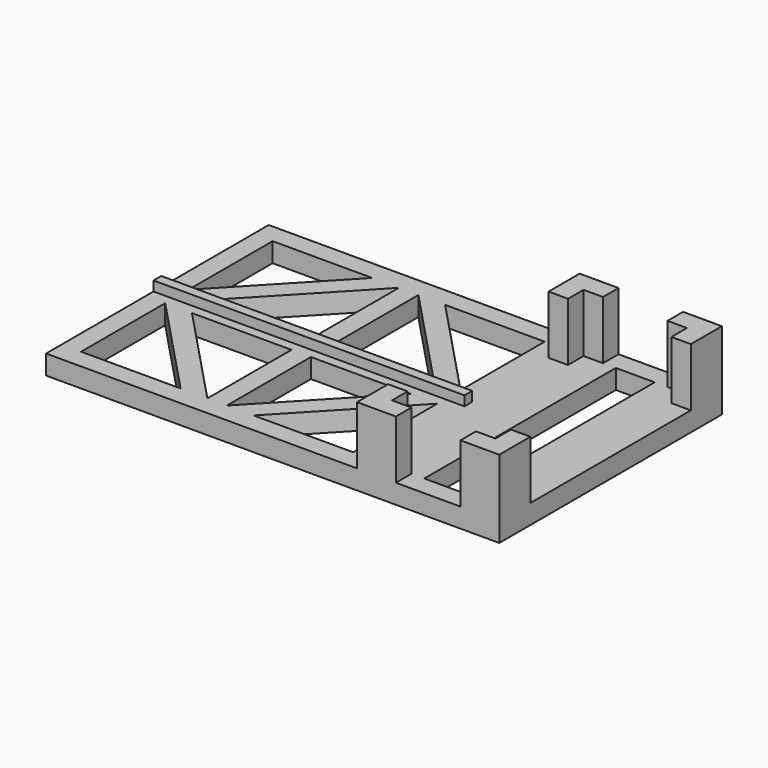
from build123d import *

# Parameters (mm, degrees)
F0_W     = 1.5875
F0_H     = 16.383
F0_W_2   = 2.38125
F0_H_2   = 19.05
F0_W_3   = 25.4
F0_H_3   = 0.79375
F1_DEPTH = 1.5875
F2_DEPTH = 4.7625
F3_DEPTH = 0.79375


with BuildPart() as f1:
    # F0 (on Top) → F1 (new body)
    with BuildSketch(Plane.XY):
        Polygon((-1.5875, 9.779), (1.5875, 9.779), (2.63525, 9.779), (2.63525, 11.3665), (-2.63525, 11.3665), (-2.63525, 9.779), align=None)
        Polygon((2.63525, 11.3665), (2.63525, 9.779), (4.22275, 9.779), (4.22275, 8.1915), (5.81025, 8.1915), (5.81025, 11.3665), align=None)
        with Locations((5.0165, 0)):
            Rectangle(F0_W, F0_H)
        Polygon((4.22275, -9.779), (2.63525, -9.779), (2.63525, -11.3665), (5.81025, -11.3665), (5.81025, -8.1915), (4.22275, -8.1915), align=None)
        Polygon((2.63525, -9.779), (1.5875, -9.779), (-1.5875, -9.779), (-2.63525, -9.779), (-2.63525, -11.3665), (2.63525, -11.3665), align=None)
        Polygon((-4.22275, -9.779), (-4.22275, -8.1915), (-5.81025, -8.1915), (-5.81025, -11.3665), (-2.63525, -11.3665), (-2.63525, -9.779), align=None)
        Polygon((-5.81025, 8.1915), (-5.81025, 11.3665), (-31.21025, 11.3665), (-31.21025, 0.396875), (-5.81025, 0.396875), align=None)
        Polygon((-21.490287, 9.779), (-29.62275, 1.190625), (-29.62275, 9.779), align=None, mode=Mode.SUBTRACT)
        Polygon((-27.436463, 1.190625), (-19.304, 9.779), (-19.304, 1.190625), align=None, mode=Mode.SUBTRACT)
        Polygon((-17.7165, 9.779), (-9.584037, 1.190625), (-17.7165, 1.190625), align=None, mode=Mode.SUBTRACT)
        Polygon((-7.39775, 1.190625), (-15.530213, 9.779), (-7.39775, 9.779), align=None, mode=Mode.SUBTRACT)
        Polygon((-4.22275, 9.779), (-2.63525, 9.779), (-2.63525, 11.3665), (-5.81025, 11.3665), (-5.81025, 8.1915), (-4.22275, 8.1915), align=None)
        Polygon((-5.81025, -8.1915), (-4.22275, -8.1915), (-4.22275, 8.1915), (-5.81025, 8.1915), (-5.81025, 0.396875), (-5.81025, -0.396875), align=None)
        with Locations((2.778125, 0)):
            Rectangle(F0_W_2, F0_H_2)
        Polygon((-1.5875, -9.525), (-1.5875, 9.525), (-3.96875, 9.525), (-3.96875, -8.1915), (-3.96875, -9.525), align=None)
        Polygon((-3.96875, 9.525), (-1.5875, 9.525), (-1.5875, 9.779), (-2.63525, 9.779), (-4.22275, 9.779), (-4.22275, 8.1915), (-4.22275, -8.1915), (-3.96875, -8.1915), align=None)
        Polygon((-1.5875, -9.779), (-1.5875, -9.525), (-3.96875, -9.525), (-3.96875, -8.1915), (-4.22275, -8.1915), (-4.22275, -9.779), (-2.63525, -9.779), align=None)
        Polygon((1.5875, 9.525), (3.96875, 9.525), (3.96875, -9.525), (1.5875, -9.525), (1.5875, -9.779), (2.63525, -9.779), (4.22275, -9.779), (4.22275, -8.1915), (4.22275, 8.1915), (4.22275, 9.779), (2.63525, 9.779), (1.5875, 9.779), align=None)
        Polygon((-5.81025, -11.3665), (-5.81025, -8.1915), (-5.81025, -0.396875), (-31.21025, -0.396875), (-31.21025, -11.3665), align=None)
        Polygon((-29.62275, -1.190625), (-21.490287, -9.779), (-29.62275, -9.779), align=None, mode=Mode.SUBTRACT)
        Polygon((-27.436463, -1.190625), (-19.304, -1.190625), (-19.304, -9.779), align=None, mode=Mode.SUBTRACT)
        Polygon((-9.584037, -1.190625), (-17.7165, -9.779), (-17.7165, -1.190625), align=None, mode=Mode.SUBTRACT)
        Polygon((-15.530213, -9.779), (-7.39775, -1.190625), (-7.39775, -9.779), align=None, mode=Mode.SUBTRACT)
        with Locations((-18.51025, 0)):
            Rectangle(F0_W_3, F0_H_3)
    extrude(amount=-F1_DEPTH)

    # F0 (on Top) → F2 (join)
    with BuildSketch(Plane.XY):
        Polygon((-4.22275, 9.779), (-2.63525, 9.779), (-2.63525, 11.3665), (-5.81025, 11.3665), (-5.81025, 8.1915), (-4.22275, 8.1915), align=None)
        Polygon((2.63525, 11.3665), (2.63525, 9.779), (4.22275, 9.779), (4.22275, 8.1915), (5.81025, 8.1915), (5.81025, 11.3665), align=None)
        Polygon((4.22275, -9.779), (2.63525, -9.779), (2.63525, -11.3665), (5.81025, -11.3665), (5.81025, -8.1915), (4.22275, -8.1915), align=None)
        Polygon((-4.22275, -9.779), (-4.22275, -8.1915), (-5.81025, -8.1915), (-5.81025, -11.3665), (-2.63525, -11.3665), (-2.63525, -9.779), align=None)
    extrude(amount=F2_DEPTH)

    # F0 (on Top) → F3 (join)
    with BuildSketch(Plane.XY):
        with Locations((-18.51025, 0)):
            Rectangle(F0_W_3, F0_H_3)
    extrude(amount=F3_DEPTH)


solid = f1.part
